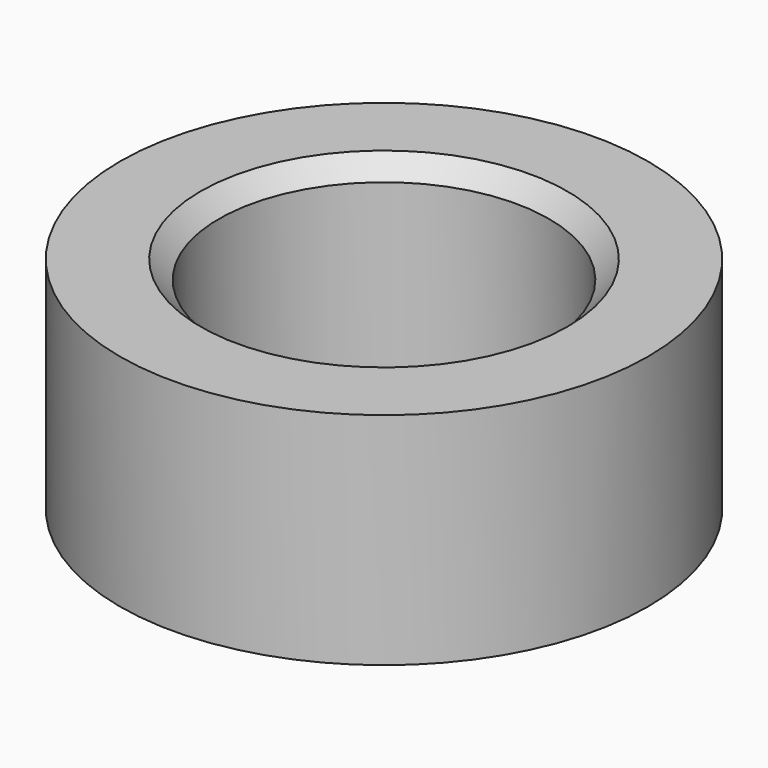
from build123d import *

# Parameters (mm, degrees)
F0_R     = 7.2
F1_DEPTH = 6
F2_R     = 4.5
F3_DEPTH = 6.001
F4_SIZE2 = 0.5
F4_SIZE  = 0.5


with BuildPart() as f1:
    # F0 (on Top) → F1 (new body)
    with BuildSketch(Plane.XY):
        Circle(F0_R)
    extrude(amount=F1_DEPTH)

    # F2 (on face) → F3 (cut, through all)
    with BuildSketch(Plane.XY.offset(6)):
        Circle(F2_R)
    extrude(amount=-F3_DEPTH, mode=Mode.SUBTRACT)

    # F4
    f4_edges = [f1.edges().sort_by_distance(p)[0] for p in [
        (-4.5, 0, 6),
        (-4.5, 0, 0),
    ]]
    chamfer(f4_edges, length=F4_SIZE, length2=F4_SIZE2)


solid = f1.part
